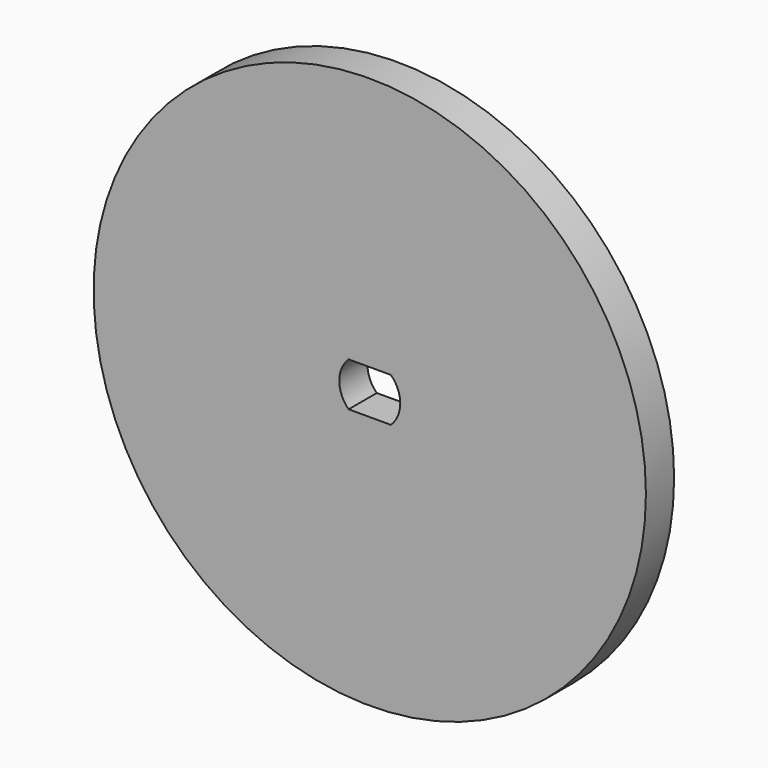
from build123d import *

# Parameters (mm, degrees)
F0_R     = 23.5
F1_DEPTH = 3


with BuildPart() as f1:
    # F0 (on Front) → F1 (new body)
    with BuildSketch(Plane.XZ):
        Circle(F0_R)
        with BuildLine():
            ThreePointArc((1.7988827783, 1.871), (2.3880557469, 1.0167644759), (2.5955, 0))
            ThreePointArc((2.5955, 0), (2.3880557469, -1.0167644759), (1.7988827783, -1.871))
            ThreePointArc((1.7988827783, -1.871), (0, -2.5955), (-1.7988827783, -1.871))
            ThreePointArc((-1.7988827783, -1.871), (-2.5955, 0), (-1.7988827783, 1.871))
            ThreePointArc((-1.7988827783, 1.871), (0, 2.5955), (1.7988827783, 1.871))
        make_face(mode=Mode.SUBTRACT)
        with BuildLine():
            Line((-1.7988827783, 1.871), (1.7988827783, 1.871))
            ThreePointArc((1.7988827783, 1.871), (0, 2.5955), (-1.7988827783, 1.871))
        make_face()
        with BuildLine():
            ThreePointArc((-1.7988827783, -1.871), (0, -2.5955), (1.7988827783, -1.871))
            Line((1.7988827783, -1.871), (-1.7988827783, -1.871))
        make_face()
    extrude(amount=F1_DEPTH)


solid = f1.part
